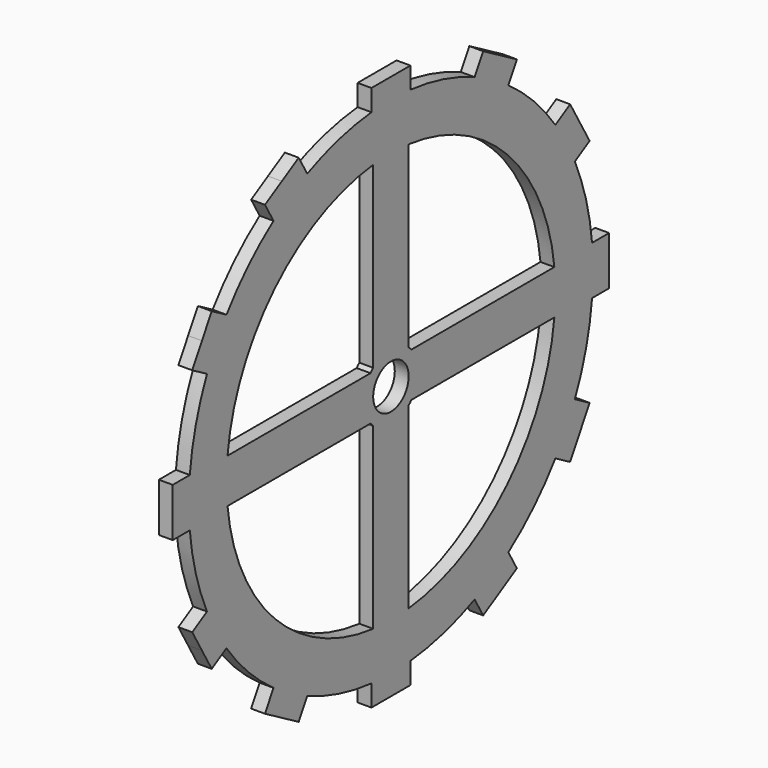
from build123d import *

# Parameters (mm, degrees)
F0_R     = 7.9900958087
F1_DEPTH = 2.5


with BuildPart() as f1:
    # F0 (on Right) → F1 (new body, symmetric)
    with BuildSketch(Plane.YZ):
        with BuildLine():
            ThreePointArc((90.663921699, -8.776615878), (90.9817208721, -4.3934213602), (91.0877361894, 0))
            ThreePointArc((91.0877361894, 0), (90.9817208721, 4.3934213602), (90.663921699, 8.776615878))
            ThreePointArc((90.663921699, 8.776615878), (87.9839968435, 23.5752409011), (82.905567337, 37.7311885399))
            ThreePointArc((82.905567337, 37.7311885399), (78.8842935132, 45.5438680947), (74.128951459, 52.932733159))
            ThreePointArc((74.128951459, 52.932733159), (64.4087559424, 64.4087559424), (52.932733159, 74.128951459))
            ThreePointArc((52.932733159, 74.128951459), (45.5438680947, 78.8842935132), (37.7311885399, 82.905567337))
            ThreePointArc((37.7311885399, 82.905567337), (23.5752409011, 87.9839968435), (8.776615878, 90.663921699))
            ThreePointArc((8.776615878, 90.663921699), (0, 91.0877361894), (-8.776615878, 90.663921699))
            ThreePointArc((-8.776615878, 90.663921699), (-23.5752409011, 87.9839968435), (-37.7311885399, 82.905567337))
            ThreePointArc((-37.7311885399, 82.905567337), (-45.5438680947, 78.8842935132), (-52.932733159, 74.128951459))
            ThreePointArc((-52.932733159, 74.128951459), (-64.4087559424, 64.4087559424), (-74.128951459, 52.932733159))
            ThreePointArc((-74.128951459, 52.932733159), (-78.8842935132, 45.5438680947), (-82.905567337, 37.7311885399))
            ThreePointArc((-82.905567337, 37.7311885399), (-87.9839968435, 23.5752409011), (-90.663921699, 8.776615878))
            ThreePointArc((-90.663921699, 8.776615878), (-91.0877361894, 0), (-90.663921699, -8.776615878))
            ThreePointArc((-90.663921699, -8.776615878), (-87.9839968435, -23.5752409011), (-82.905567337, -37.7311885399))
            ThreePointArc((-82.905567337, -37.7311885399), (-78.8842935132, -45.5438680947), (-74.128951459, -52.932733159))
            ThreePointArc((-74.128951459, -52.932733159), (-64.4087559424, -64.4087559424), (-52.932733159, -74.128951459))
            ThreePointArc((-52.932733159, -74.128951459), (-45.5438680947, -78.8842935132), (-37.7311885399, -82.905567337))
            ThreePointArc((-37.7311885399, -82.905567337), (-23.5752409011, -87.9839968435), (-8.776615878, -90.663921699))
            ThreePointArc((-8.776615878, -90.663921699), (0, -91.0877361894), (8.776615878, -90.663921699))
            ThreePointArc((8.776615878, -90.663921699), (23.5752409011, -87.9839968435), (37.7311885399, -82.905567337))
            ThreePointArc((37.7311885399, -82.905567337), (45.5438680947, -78.8842935132), (52.932733159, -74.128951459))
            ThreePointArc((52.932733159, -74.128951459), (64.4087559424, -64.4087559424), (74.128951459, -52.932733159))
            ThreePointArc((74.128951459, -52.932733159), (78.8842935132, -45.5438680947), (82.905567337, -37.7311885399))
            ThreePointArc((82.905567337, -37.7311885399), (87.9839968435, -23.5752409011), (90.663921699, -8.776615878))
        make_face()
        with BuildLine():
            ThreePointArc((7.9900958087, 73.6620471974), (52.392455699, 52.392455699), (73.6620471974, 7.9900958087))
            ThreePointArc((73.6620471974, 7.9900958087), (73.9860240083, 4.0008848759), (74.0941214156, 0))
            ThreePointArc((74.0941214156, 0), (73.9860240083, -4.0008848759), (73.6620471974, -7.9900958087))
            ThreePointArc((73.6620471974, -7.9900958087), (52.392455699, -52.392455699), (7.9900958087, -73.6620471974))
            ThreePointArc((7.9900958087, -73.6620471974), (0, -74.0941214156), (-7.9900958087, -73.6620471974))
            ThreePointArc((-7.9900958087, -73.6620471974), (-52.392455699, -52.392455699), (-73.6620471974, -7.9900958087))
            ThreePointArc((-73.6620471974, -7.9900958087), (-74.0941214156, 0), (-73.6620471974, 7.9900958087))
            ThreePointArc((-73.6620471974, 7.9900958087), (-52.392455699, 52.392455699), (-7.9900958087, 73.6620471974))
            ThreePointArc((-7.9900958087, 73.6620471974), (0, 74.0941214156), (7.9900958087, 73.6620471974))
        make_face(mode=Mode.SUBTRACT)
        with BuildLine():
            ThreePointArc((90.663921699, -8.776615878), (90.9817208721, -4.3934213602), (91.0877361894, 0))
            ThreePointArc((91.0877361894, 0), (90.9817208721, 4.3934213602), (90.663921699, 8.776615878))
            ThreePointArc((90.663921699, 8.776615878), (87.9839968435, 23.5752409011), (82.905567337, 37.7311885399))
            ThreePointArc((82.905567337, 37.7311885399), (78.8842935132, 45.5438680947), (74.128951459, 52.932733159))
            ThreePointArc((74.128951459, 52.932733159), (64.4087559424, 64.4087559424), (52.932733159, 74.128951459))
            ThreePointArc((52.932733159, 74.128951459), (45.5438680947, 78.8842935132), (37.7311885399, 82.905567337))
            ThreePointArc((37.7311885399, 82.905567337), (23.5752409011, 87.9839968435), (8.776615878, 90.663921699))
            ThreePointArc((8.776615878, 90.663921699), (0, 91.0877361894), (-8.776615878, 90.663921699))
            ThreePointArc((-8.776615878, 90.663921699), (-23.5752409011, 87.9839968435), (-37.7311885399, 82.905567337))
            ThreePointArc((-37.7311885399, 82.905567337), (-45.5438680947, 78.8842935132), (-52.932733159, 74.128951459))
            ThreePointArc((-52.932733159, 74.128951459), (-64.4087559424, 64.4087559424), (-74.128951459, 52.932733159))
            ThreePointArc((-74.128951459, 52.932733159), (-78.8842935132, 45.5438680947), (-82.905567337, 37.7311885399))
            ThreePointArc((-82.905567337, 37.7311885399), (-87.9839968435, 23.5752409011), (-90.663921699, 8.776615878))
            ThreePointArc((-90.663921699, 8.776615878), (-91.0877361894, 0), (-90.663921699, -8.776615878))
            ThreePointArc((-90.663921699, -8.776615878), (-87.9839968435, -23.5752409011), (-82.905567337, -37.7311885399))
            ThreePointArc((-82.905567337, -37.7311885399), (-78.8842935132, -45.5438680947), (-74.128951459, -52.932733159))
            ThreePointArc((-74.128951459, -52.932733159), (-64.4087559424, -64.4087559424), (-52.932733159, -74.128951459))
            ThreePointArc((-52.932733159, -74.128951459), (-45.5438680947, -78.8842935132), (-37.7311885399, -82.905567337))
            ThreePointArc((-37.7311885399, -82.905567337), (-23.5752409011, -87.9839968435), (-8.776615878, -90.663921699))
            ThreePointArc((-8.776615878, -90.663921699), (0, -91.0877361894), (8.776615878, -90.663921699))
            ThreePointArc((8.776615878, -90.663921699), (23.5752409011, -87.9839968435), (37.7311885399, -82.905567337))
            ThreePointArc((37.7311885399, -82.905567337), (45.5438680947, -78.8842935132), (52.932733159, -74.128951459))
            ThreePointArc((52.932733159, -74.128951459), (64.4087559424, -64.4087559424), (74.128951459, -52.932733159))
            ThreePointArc((74.128951459, -52.932733159), (78.8842935132, -45.5438680947), (82.905567337, -37.7311885399))
            ThreePointArc((82.905567337, -37.7311885399), (87.9839968435, -23.5752409011), (90.663921699, -8.776615878))
        make_face()
        with BuildLine():
            ThreePointArc((7.9900958087, 73.6620471974), (52.392455699, 52.392455699), (73.6620471974, 7.9900958087))
            ThreePointArc((73.6620471974, 7.9900958087), (73.9860240083, 4.0008848759), (74.0941214156, 0))
            ThreePointArc((74.0941214156, 0), (73.9860240083, -4.0008848759), (73.6620471974, -7.9900958087))
            ThreePointArc((73.6620471974, -7.9900958087), (52.392455699, -52.392455699), (7.9900958087, -73.6620471974))
            ThreePointArc((7.9900958087, -73.6620471974), (0, -74.0941214156), (-7.9900958087, -73.6620471974))
            ThreePointArc((-7.9900958087, -73.6620471974), (-52.392455699, -52.392455699), (-73.6620471974, -7.9900958087))
            ThreePointArc((-73.6620471974, -7.9900958087), (-74.0941214156, 0), (-73.6620471974, 7.9900958087))
            ThreePointArc((-73.6620471974, 7.9900958087), (-52.392455699, 52.392455699), (-7.9900958087, 73.6620471974))
            ThreePointArc((-7.9900958087, 73.6620471974), (0, 74.0941214156), (7.9900958087, 73.6620471974))
        make_face(mode=Mode.SUBTRACT)
        with BuildLine():
            ThreePointArc((-7.9900958087, 9.2055597007), (0, 12.1895020586), (7.9900958087, 9.2055597007))
            Line((7.9900958087, 9.2055597007), (7.9900958087, 73.6620471974))
            ThreePointArc((7.9900958087, 73.6620471974), (0, 74.0941214156), (-7.9900958087, 73.6620471974))
            Line((-7.9900958087, 73.6620471974), (-7.9900958087, 9.2055597007))
        make_face()
        with BuildLine():
            ThreePointArc((-9.2055597007, -7.9900958087), (-12.1895020586, 0), (-9.2055597007, 7.9900958087))
            Line((-9.2055597007, 7.9900958087), (-73.6620471974, 7.9900958087))
            ThreePointArc((-73.6620471974, 7.9900958087), (-74.0941214156, 0), (-73.6620471974, -7.9900958087))
            Line((-73.6620471974, -7.9900958087), (-9.2055597007, -7.9900958087))
        make_face()
        with BuildLine():
            ThreePointArc((9.2055597007, 7.9900958087), (11.4191757443, 4.2645498891), (12.1895020586, 0))
            ThreePointArc((12.1895020586, 0), (11.4191757443, -4.2645498891), (9.2055597007, -7.9900958087))
            Line((9.2055597007, -7.9900958087), (73.6620471974, -7.9900958087))
            ThreePointArc((73.6620471974, -7.9900958087), (73.9860240083, -4.0008848759), (74.0941214156, 0))
            ThreePointArc((74.0941214156, 0), (73.9860240083, 4.0008848759), (73.6620471974, 7.9900958087))
            Line((73.6620471974, 7.9900958087), (9.2055597007, 7.9900958087))
        make_face()
        with BuildLine():
            Line((7.9900958087, -73.6620471974), (7.9900958087, -9.2055597007))
            ThreePointArc((7.9900958087, -9.2055597007), (0, -12.1895020586), (-7.9900958087, -9.2055597007))
            Line((-7.9900958087, -9.2055597007), (-7.9900958087, -73.6620471974))
            ThreePointArc((-7.9900958087, -73.6620471974), (0, -74.0941214156), (7.9900958087, -73.6620471974))
        make_face()
        with BuildLine():
            ThreePointArc((9.2055597007, -7.9900958087), (11.4191757443, -4.2645498891), (12.1895020586, 0))
            ThreePointArc((12.1895020586, 0), (11.4191757443, 4.2645498891), (9.2055597007, 7.9900958087))
            ThreePointArc((9.2055597007, 7.9900958087), (8.6192795649, 8.6192795649), (7.9900958087, 9.2055597007))
            ThreePointArc((7.9900958087, 9.2055597007), (0, 12.1895020586), (-7.9900958087, 9.2055597007))
            ThreePointArc((-7.9900958087, 9.2055597007), (-8.6192795649, 8.6192795649), (-9.2055597007, 7.9900958087))
            ThreePointArc((-9.2055597007, 7.9900958087), (-12.1895020586, 0), (-9.2055597007, -7.9900958087))
            ThreePointArc((-9.2055597007, -7.9900958087), (-8.6192795649, -8.6192795649), (-7.9900958087, -9.2055597007))
            ThreePointArc((-7.9900958087, -9.2055597007), (0, -12.1895020586), (7.9900958087, -9.2055597007))
            ThreePointArc((7.9900958087, -9.2055597007), (8.6192795649, -8.6192795649), (9.2055597007, -7.9900958087))
        make_face()
        Circle(F0_R, mode=Mode.SUBTRACT)
        with BuildLine():
            ThreePointArc((-8.776615878, 90.663921699), (0, 91.0877361894), (8.776615878, 90.663921699))
            Line((8.776615878, 90.663921699), (8.776615878, 98.354325348))
            Line((8.776615878, 98.354325348), (0, 98.354325348))
            Line((0, 98.354325348), (-8.776615878, 98.354325348))
            Line((-8.776615878, 98.354325348), (-8.776615878, 90.663921699))
        make_face()
        with BuildLine():
            ThreePointArc((37.7311885399, 82.905567337), (45.5438680947, 78.8842935132), (52.932733159, 74.128951459))
            Line((52.932733159, 74.128951459), (56.7779349836, 80.7890363845))
            Line((56.7779349836, 80.7890363845), (49.177162674, 85.1773443235))
            Line((49.177162674, 85.1773443235), (41.5763903644, 89.5656522624))
            Line((41.5763903644, 89.5656522624), (37.7311885399, 82.905567337))
        make_face()
        with BuildLine():
            ThreePointArc((74.128951459, 52.932733159), (78.8842935132, 45.5438680947), (82.905567337, 37.7311885399))
            Line((82.905567337, 37.7311885399), (89.5656522624, 41.5763903644))
            Line((89.5656522624, 41.5763903644), (85.1773443235, 49.177162674))
            Line((85.1773443235, 49.177162674), (80.7890363845, 56.7779349836))
            Line((80.7890363845, 56.7779349836), (74.128951459, 52.932733159))
        make_face()
        with BuildLine():
            ThreePointArc((90.663921699, 8.776615878), (90.9817208721, 4.3934213602), (91.0877361894, 0))
            ThreePointArc((91.0877361894, 0), (90.9817208721, -4.3934213602), (90.663921699, -8.776615878))
            Line((90.663921699, -8.776615878), (98.354325348, -8.776615878))
            Line((98.354325348, -8.776615878), (98.354325348, 0))
            Line((98.354325348, 0), (98.354325348, 8.776615878))
            Line((98.354325348, 8.776615878), (90.663921699, 8.776615878))
        make_face()
        with BuildLine():
            Line((89.5656522624, -41.5763903644), (82.905567337, -37.7311885399))
            ThreePointArc((82.905567337, -37.7311885399), (78.8842935132, -45.5438680947), (74.128951459, -52.932733159))
            Line((74.128951459, -52.932733159), (80.7890363845, -56.7779349836))
            Line((80.7890363845, -56.7779349836), (85.1773443235, -49.177162674))
            Line((85.1773443235, -49.177162674), (89.5656522624, -41.5763903644))
        make_face()
        with BuildLine():
            Line((56.7779349836, -80.7890363845), (52.932733159, -74.128951459))
            ThreePointArc((52.932733159, -74.128951459), (45.5438680947, -78.8842935132), (37.7311885399, -82.905567337))
            Line((37.7311885399, -82.905567337), (41.5763903644, -89.5656522624))
            Line((41.5763903644, -89.5656522624), (49.177162674, -85.1773443235))
            Line((49.177162674, -85.1773443235), (56.7779349836, -80.7890363845))
        make_face()
        with BuildLine():
            Line((8.776615878, -98.354325348), (8.776615878, -90.663921699))
            ThreePointArc((8.776615878, -90.663921699), (0, -91.0877361894), (-8.776615878, -90.663921699))
            Line((-8.776615878, -90.663921699), (-8.776615878, -98.354325348))
            Line((-8.776615878, -98.354325348), (0, -98.354325348))
            Line((0, -98.354325348), (8.776615878, -98.354325348))
        make_face()
        with BuildLine():
            Line((-41.5763903644, -89.5656522624), (-37.7311885399, -82.905567337))
            ThreePointArc((-37.7311885399, -82.905567337), (-45.5438680947, -78.8842935132), (-52.932733159, -74.128951459))
            Line((-52.932733159, -74.128951459), (-56.7779349836, -80.7890363845))
            Line((-56.7779349836, -80.7890363845), (-49.177162674, -85.1773443235))
            Line((-49.177162674, -85.1773443235), (-41.5763903644, -89.5656522624))
        make_face()
        with BuildLine():
            Line((-80.7890363845, -56.7779349836), (-74.128951459, -52.932733159))
            ThreePointArc((-74.128951459, -52.932733159), (-78.8842935132, -45.5438680947), (-82.905567337, -37.7311885399))
            Line((-82.905567337, -37.7311885399), (-89.5656522624, -41.5763903644))
            Line((-89.5656522624, -41.5763903644), (-85.1773443235, -49.177162674))
            Line((-85.1773443235, -49.177162674), (-80.7890363845, -56.7779349836))
        make_face()
        with BuildLine():
            ThreePointArc((-90.663921699, -8.776615878), (-91.0877361894, 0), (-90.663921699, 8.776615878))
            Line((-90.663921699, 8.776615878), (-98.354325348, 8.776615878))
            Line((-98.354325348, 8.776615878), (-98.354325348, 0))
            Line((-98.354325348, 0), (-98.354325348, -8.776615878))
            Line((-98.354325348, -8.776615878), (-90.663921699, -8.776615878))
        make_face()
        with BuildLine():
            ThreePointArc((-82.905567337, 37.7311885399), (-78.8842935132, 45.5438680947), (-74.128951459, 52.932733159))
            Line((-74.128951459, 52.932733159), (-80.7890363845, 56.7779349836))
            Line((-80.7890363845, 56.7779349836), (-85.1773443235, 49.177162674))
            Line((-85.1773443235, 49.177162674), (-89.5656522624, 41.5763903644))
            Line((-89.5656522624, 41.5763903644), (-82.905567337, 37.7311885399))
        make_face()
        with BuildLine():
            ThreePointArc((-52.932733159, 74.128951459), (-45.5438680947, 78.8842935132), (-37.7311885399, 82.905567337))
            Line((-37.7311885399, 82.905567337), (-41.5763903644, 89.5656522624))
            Line((-41.5763903644, 89.5656522624), (-49.177162674, 85.1773443235))
            Line((-49.177162674, 85.1773443235), (-56.7779349836, 80.7890363845))
            Line((-56.7779349836, 80.7890363845), (-52.932733159, 74.128951459))
        make_face()
    extrude(amount=F1_DEPTH, both=True)


solid = f1.part
